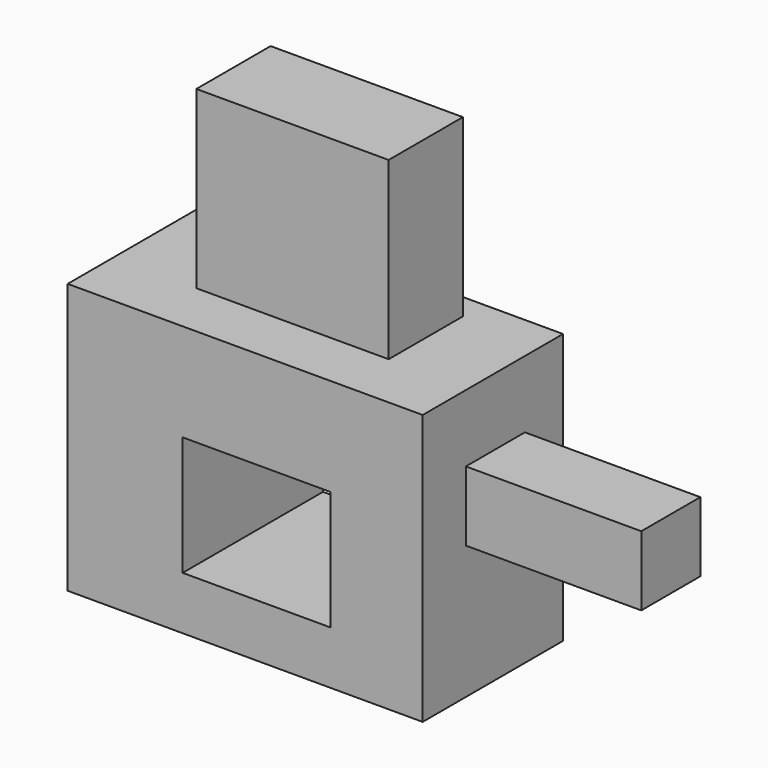
from build123d import *

# Parameters (mm, degrees)
F0_W     = 50.588429
F0_H     = 38.504552
F0_W_2   = 21.09558
F0_H_2   = 16.999349
F1_DEPTH = 25
F2_W     = 27.401078
F2_H     = 13.22294
F3_DEPTH = 25
F4_W     = 10.518003
F4_H     = 9.934522
F5_DEPTH = 25


with BuildPart() as f1:
    # F0 (on Front) → F1 (new body)
    with BuildSketch(Plane.XZ):
        with Locations((-1.740897, 6.246749)):
            Rectangle(F0_W, F0_H)
        with Locations((-0.102405, 3.072171)):
            Rectangle(F0_W_2, F0_H_2, mode=Mode.SUBTRACT)
    extrude(amount=F1_DEPTH)

    # F2 (on face) → F3 (join)
    with BuildSketch(Plane.XY.offset(25.499025)):
        with Locations((-1.496977, -10.263078)):
            Rectangle(F2_W, F2_H)
    extrude(amount=F3_DEPTH)

    # F4 (on face) → F5 (join)
    with BuildSketch(Plane.YZ.offset(23.553317)):
        with Locations((-12.053044, 10.954987)):
            Rectangle(F4_W, F4_H)
    extrude(amount=F5_DEPTH)


solid = f1.part
